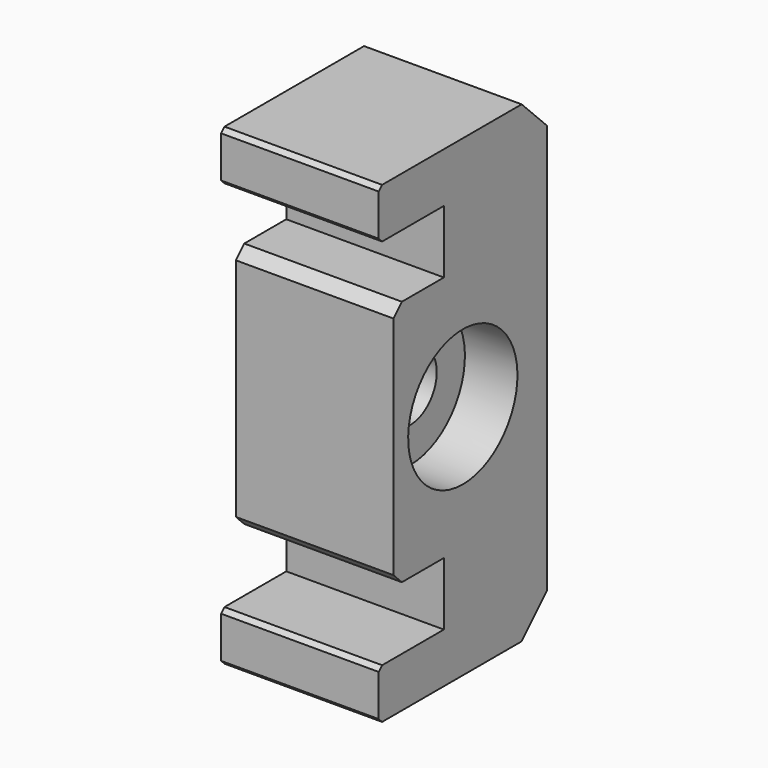
from build123d import *

# Parameters (mm, degrees)
CYLINDER005_R      = 3.15
CYLINDER005_DEPTH  = 18
CYLINDER004_R      = 6.5
CYLINDER004_DEPTH  = 18
BOX011_W           = 15
BOX011_H           = 7.75
BOX011_DEPTH       = 35.5
BOX009_W           = 15
BOX009_H           = 20
BOX009_DEPTH       = 45
BOX010_W           = 15
BOX010_H           = 7.75
BOX010_DEPTH       = 23.5
CHAMFER003012_SIZE = 0.4
CHAMFER003013_SIZE = 1
CHAMFER003014_SIZE = 3
BOX012_W           = 10
BOX012_H           = 7.8
BOX012_DEPTH       = 4.75
BOX013_W           = 10
BOX013_H           = 7.8
BOX013_DEPTH       = 4.75
BOX014_W           = 10
BOX014_H           = 7.8
BOX014_DEPTH       = 23.5
CHAMFER003008_SIZE = 1


with BuildPart() as cylinder005:
    # Cylinder005 → Cylinder005 (new body)
    with BuildSketch(Plane(origin=(-3.5, 20, 22.5), x_dir=(0, 0, -1), z_dir=(1, 0, 0))):
        Circle(CYLINDER005_R)
    extrude(amount=CYLINDER005_DEPTH)


with BuildPart() as cylinder004:
    # Cylinder004 → Cylinder004 (new body)
    with BuildSketch(Plane(origin=(10, 20, 22.5), x_dir=(0, 0, -1), z_dir=(1, 0, 0))):
        Circle(CYLINDER004_R)
    extrude(amount=CYLINDER004_DEPTH)


with BuildPart() as cube011:
    # Box011 → Box011 (new body)
    with BuildSketch(Plane(origin=(0, 10, 4.75), x_dir=(1, 0, 0), z_dir=(0, 0, 1))):
        with Locations((7.5, 3.875)):
            Rectangle(BOX011_W, BOX011_H)
    extrude(amount=BOX011_DEPTH)


with BuildPart() as cut008004003004014002002005003002:
    # Box009 → Box009 (new body)
    with BuildSketch(Plane(origin=(0, 10, 0), x_dir=(1, 0, 0), z_dir=(0, 0, 1))):
        with Locations((7.5, 10)):
            Rectangle(BOX009_W, BOX009_H)
    extrude(amount=BOX009_DEPTH)

    # Cut008004003004014002002005003002: cut Cube011
    add(cube011.part, mode=Mode.SUBTRACT)


with BuildPart() as chamfer003014:
    # Box010 → Box010 (new body)
    with BuildSketch(Plane(origin=(0, 11.75, 10.75), x_dir=(1, 0, 0), z_dir=(0, 0, 1))):
        with Locations((7.5, 3.875)):
            Rectangle(BOX010_W, BOX010_H)
    extrude(amount=BOX010_DEPTH)

    # Fusion008: union Cut008004003004014002002005003002
    add(cut008004003004014002002005003002.part)

    # Chamfer003012
    chamfer003012_edges = [chamfer003014.edges().sort_by_distance(p)[0] for p in [
        (7.5, 10, 40.25),
        (7.5, 10, 4.75),
        (7.5, 10, 0),
        (7.5, 10, 45),
    ]]
    chamfer(chamfer003012_edges, length=CHAMFER003012_SIZE)

    # Chamfer003013
    chamfer003013_edges = [chamfer003014.edges().sort_by_distance(p)[0] for p in [
        (7.5, 11.75, 10.75),
        (7.5, 11.75, 34.25),
    ]]
    chamfer(chamfer003013_edges, length=CHAMFER003013_SIZE)

    # Chamfer003014
    chamfer003014_edges = [chamfer003014.edges().sort_by_distance(p)[0] for p in [
        (7.5, 30, 0),
        (7.5, 30, 45),
    ]]
    chamfer(chamfer003014_edges, length=CHAMFER003014_SIZE)


with BuildPart() as cube012:
    # Box012 → Box012 (new body)
    with BuildSketch(Plane(origin=(-1, 16.1, 0), x_dir=(1, 0, 0), z_dir=(0, 0, 1))):
        with Locations((5, 3.9)):
            Rectangle(BOX012_W, BOX012_H)
    extrude(amount=BOX012_DEPTH)


with BuildPart() as cube013:
    # Box013 → Box013 (new body)
    with BuildSketch(Plane(origin=(-1, 16.1, 40.25), x_dir=(1, 0, 0), z_dir=(0, 0, 1))):
        with Locations((5, 3.9)):
            Rectangle(BOX013_W, BOX013_H)
    extrude(amount=BOX013_DEPTH)


with BuildPart() as din_stopper:
    # Box014 → Box014 (new body)
    with BuildSketch(Plane(origin=(-1, 16.1, 10.75), x_dir=(1, 0, 0), z_dir=(0, 0, 1))):
        with Locations((5, 3.9)):
            Rectangle(BOX014_W, BOX014_H)
    extrude(amount=BOX014_DEPTH)

    # Fusion005: union Cube012, Cube013
    add(cube012.part)
    add(cube013.part)

    # Chamfer003008
    chamfer003008_edges = [din_stopper.edges().sort_by_distance(p)[0] for p in [
        (-1, 20, 34.25),
        (-1, 20, 10.75),
        (-1, 20, 4.75),
        (-1, 20, 0),
        (-1, 20, 45),
        (-1, 20, 40.25),
    ]]
    chamfer(chamfer003008_edges, length=CHAMFER003008_SIZE)

    # Fusion009: union Chamfer003014
    add(chamfer003014.part)

    # Cut008004003004014002002005003003: cut Cylinder004
    add(cylinder004.part, mode=Mode.SUBTRACT)

    # Cut008004003004014002002005003004: cut Cylinder005
    add(cylinder005.part, mode=Mode.SUBTRACT)


solid = din_stopper.part
